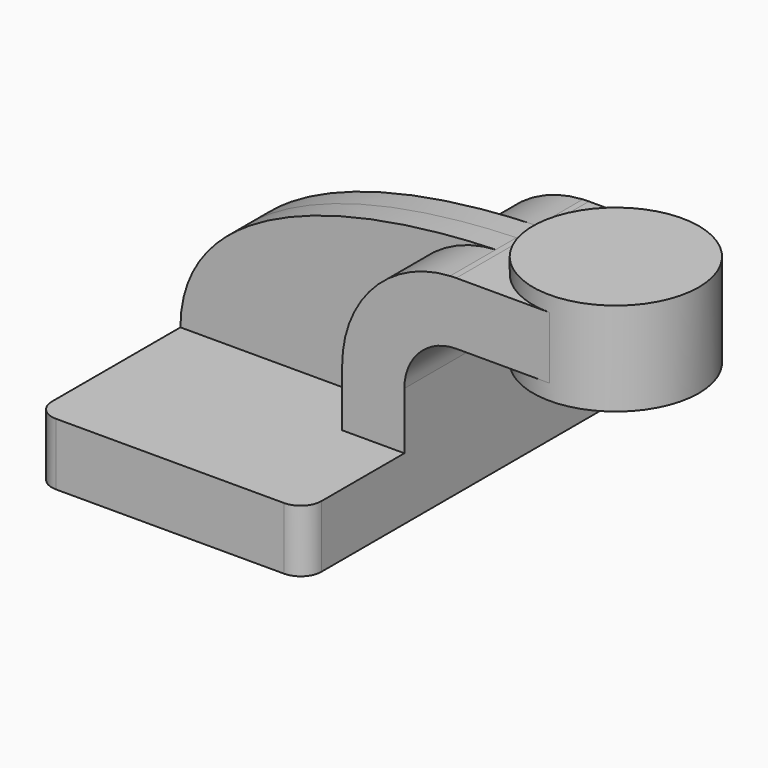
from build123d import *

# Parameters (mm, degrees)
F1_DEPTH = 63.5
F2_DEPTH = 25.4
F3_DEPTH = 7.9375
F5_R     = 6.35


with BuildPart() as f1:
    # F0 (on Front) → F1 (new body, symmetric)
    with BuildSketch(Plane.XZ):
        Polygon((-41.275, 9.525), (-41.275, -9.525), (41.275, -9.525), (41.275, 9.525), (22.225, 9.525), align=None)
    extrude(amount=F1_DEPTH, both=True)

    # F0 (on Front) → F2 (join, symmetric)
    with BuildSketch(Plane.XZ):
        with BuildLine():
            Line((22.225, 9.525), (41.275, 9.525))
            Line((41.275, 9.525), (41.275, 27.0002))
            ThreePointArc((41.275, 27.0002), (45.9246798487, 38.2255201513), (57.15, 42.8752))
            Line((57.15, 42.8752), (60.325, 42.8752))
            Line((60.325, 42.8752), (60.325, 61.9252))
            Line((60.325, 61.9252), (57.15, 61.9252))
            add(Edge.make_bspline(
                [(55.2851476574, 61.8753767127), (55.9059880343, 61.8941041264), (56.5276296664, 61.9107089301), (57.15, 61.9252)],
                knots=[110.161512309, 110.161512309, 110.161512309, 110.161512309, 111.5045361635, 111.5045361635, 111.5045361635, 111.5045361635], degree=3))
            ThreePointArc((55.2851476574, 61.8753767127), (31.8035446949, 51.0275350263), (22.225, 27.0002))
            Line((22.225, 27.0002), (22.225, 9.525))
        make_face()
        Polygon((75.3291722601, 61.9252), (60.325, 61.9252), (60.325, 42.8752), (75.3291722601, 42.8752), (85.725, 42.8752), (85.725, 61.9252), align=None)
    extrude(amount=F2_DEPTH, both=True)

    # F0 (on Front) → F3 (join, symmetric)
    with BuildSketch(Plane.XZ):
        with BuildLine():
            add(Edge.make_bspline(
                [(-41.275, 9.525), (-41.1727746696, 44.5220155957), (4.3607246911, 60.3392608693), (55.2851476574, 61.8753767127)],
                knots=[0, 0, 0, 0, 110.161512309, 110.161512309, 110.161512309, 110.161512309], degree=3))
            Line((-41.275, 9.525), (22.225, 9.525))
            Line((22.225, 9.525), (22.225, 27.0002))
            ThreePointArc((22.225, 27.0002), (31.8035446949, 51.0275350263), (55.2851476574, 61.8753767127))
        make_face()
    extrude(amount=F3_DEPTH, both=True)

    # F0 (on Front) → F4 (revolve)
    with BuildSketch(Plane.XZ):
        Polygon((111.125, 66.675), (85.725, 66.675), (85.725, 61.9252), (85.725, 42.8752), (85.725, 38.1), (111.125, 38.1), align=None)
    revolve(axis=Axis((85.725, 0, 52.3875), (0, 0, 1)))

    # F5
    f5_edges = [f1.edges().sort_by_distance(p)[0] for p in [
        (41.275, -63.5, 0),
        (-41.275, -63.5, 0),
        (41.275, 63.5, 0),
        (-41.275, 63.5, 0),
    ]]
    fillet(f5_edges, radius=F5_R)


solid = f1.part
